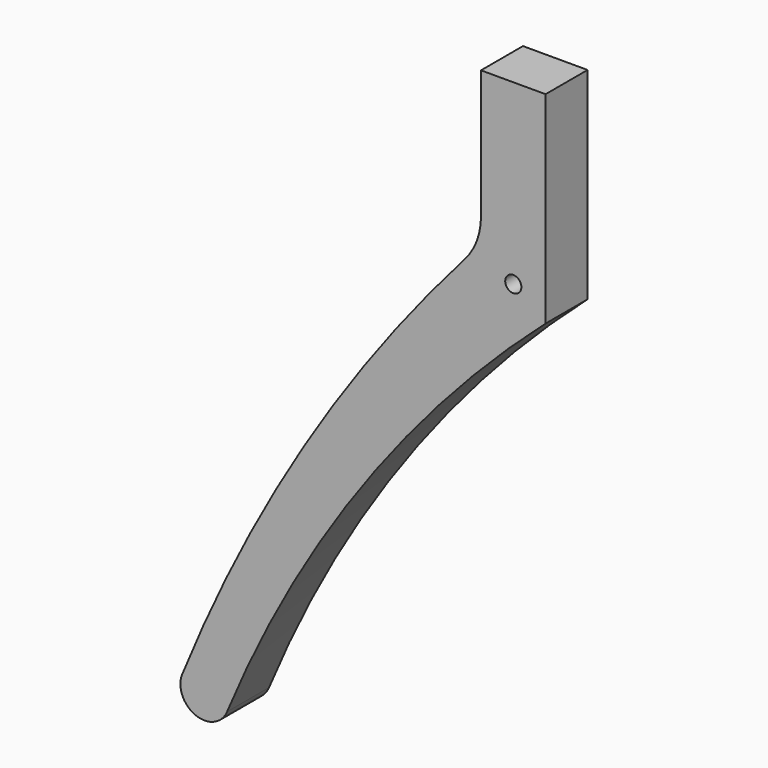
from build123d import *

# Parameters (mm, degrees)
F0_R     = 1
F1_DEPTH = 6.5


with BuildPart() as f1:
    # F0 (on Front) → F1 (new body)
    with BuildSketch(Plane.XZ):
        with BuildLine():
            ThreePointArc((-35.216109, -69.5), (-37.643365, -66.55518), (-40.997419, -68.375582))
            ThreePointArc((-40.997419, -68.375582), (-39.352976, -72.276245), (-35.444986, -70.649293))
            ThreePointArc((-35.444986, -70.649293), (-35.273885, -70.085931), (-35.216109, -69.5))
        make_face()
        with BuildLine():
            Line((4, 9.5), (-4, 9.5))
            Line((-4, 9.5), (-4, -6.441955))
            ThreePointArc((-4, -6.441955), (-4.516669, -9.27034), (-5.999941, -11.73339))
            ThreePointArc((-5.999941, -11.73339), (-25.901345, -38.569953), (-40.997419, -68.375582))
            ThreePointArc((-40.997419, -68.375582), (-37.643365, -66.55518), (-35.216109, -69.5))
            ThreePointArc((-35.216109, -69.5), (-35.273885, -70.085931), (-35.444986, -70.649293))
            ThreePointArc((-35.444986, -70.649293), (-18.875971, -40.819152), (4, -15.5))
            Line((4, -15.5), (4, -9.5))
            Line((4, -9.5), (4, 9.5))
        make_face()
        with Locations((0, -12.5)):
            Circle(F0_R, mode=Mode.SUBTRACT)
    extrude(amount=F1_DEPTH)


solid = f1.part
